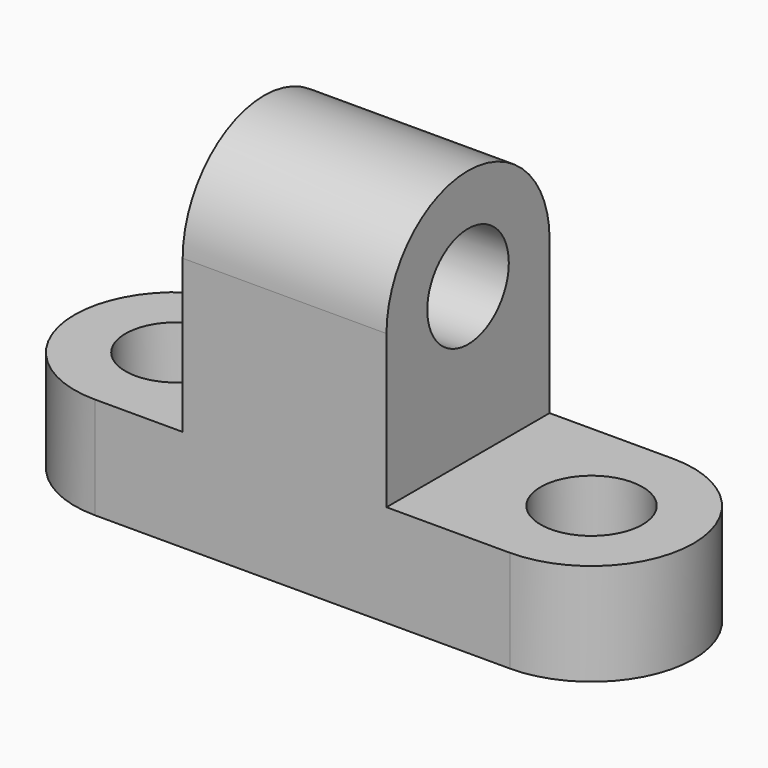
from build123d import *

# Parameters (mm, degrees)
F0_W      = 51.7292671493
F0_H      = 12.7
F1_DEPTH  = 25.4
F3_DEPTH  = 12.7
F4_DEPTH  = 25.4
F5_W      = 25.4
F5_H      = 25.4
F6_DEPTH  = 19.05
F8_DEPTH  = 25.4
F9_R      = 6.35
F10_DEPTH = 25.4
F11_R     = 6.35
F12_DEPTH = 25.4
F13_R     = 6.35
F14_DEPTH = 25.4


with BuildPart() as f1:
    # F0 (on Front) → F1 (new body)
    with BuildSketch(Plane.XZ):
        with Locations((-25.8646335747, 6.35)):
            Rectangle(F0_W, F0_H)
    extrude(amount=F1_DEPTH)

    # F2 (on face) → F3 (join)
    with BuildSketch(Plane.XY.offset(12.7)):
        with BuildLine():
            ThreePointArc((-51.7292671493, 0), (-64.4292671493, -12.7), (-51.7292671493, -25.4))
            Line((-51.7292671493, -25.4), (-51.7292671493, 0))
        make_face()
        with BuildLine():
            Line((0, 0), (0, -25.4))
            ThreePointArc((0, -25.4), (12.7, -12.7), (0, 0))
        make_face()
    extrude(amount=-F3_DEPTH)

    # F0 (on Front) → F4 (join)
    with BuildSketch(Plane.XZ):
        with Locations((-25.8646335747, 6.35)):
            Rectangle(F0_W, F0_H)
    extrude(amount=F4_DEPTH)

    # F5 (on face) → F6 (join)
    with BuildSketch(Plane.XY.offset(12.7)):
        with Locations((-28.0921224833, -12.7)):
            Rectangle(F5_W, F5_H)
    extrude(amount=F6_DEPTH)

    # F7 (on face) → F8 (join)
    with BuildSketch(Plane.YZ.offset(-15.3921224833)):
        with BuildLine():
            Line((-25.4, 31.75), (0, 31.75))
            ThreePointArc((0, 31.75), (-12.7, 44.45), (-25.4, 31.75))
        make_face()
    extrude(amount=-F8_DEPTH)

    # F9 (on face) → F10 (cut)
    with BuildSketch(Plane.YZ.offset(-15.3921224833)):
        with Locations((-12.7, 31.75)):
            Circle(F9_R)
    extrude(amount=-F10_DEPTH, mode=Mode.SUBTRACT)

    # F11 (on face) → F12 (cut)
    with BuildSketch(Plane.XY.offset(12.7)):
        with Locations((0, -12.7)):
            Circle(F11_R)
    extrude(amount=-F12_DEPTH, mode=Mode.SUBTRACT)

    # F13 (on face) → F14 (cut)
    with BuildSketch(Plane.XY.offset(12.7)):
        with Locations((-51.7292671493, -12.7)):
            Circle(F13_R)
    extrude(amount=-F14_DEPTH, mode=Mode.SUBTRACT)


solid = f1.part
